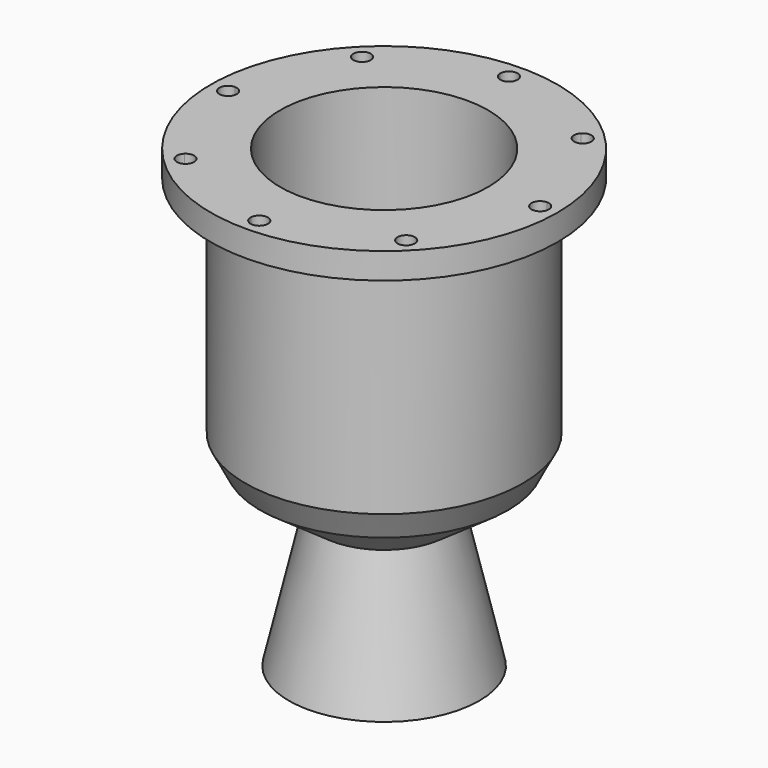
from build123d import *

# Parameters (mm, degrees)
F0_W     = 12.7
F0_H     = 81.915
F0_H_2   = 9.525
F3_DEPTH = 25.4


with BuildPart() as f1:
    # F0 (on Front) → F1 (revolve)
    with BuildSketch(Plane.XZ):
        with Locations((44.45, 40.9575)):
            Rectangle(F0_W, F0_H)
        with BuildLine():
            Line((45.384421, -10.403231), (38.1, 0))
            Line((38.1, 0), (18.240534, -13.905748))
            ThreePointArc((18.240534, -13.905748), (15.954509, -16.831727), (15.695494, -20.535803))
            Line((15.695494, -20.535803), (17.813243, -29.708778))
            Line((17.813243, -29.708778), (23.423366, -25.780527))
            Line((23.423366, -25.780527), (45.384421, -10.403231))
        make_face()
        Polygon((50.8, 0), (38.1, 0), (45.384421, -10.403231), align=None)
        with Locations((44.45, 86.6775)):
            Rectangle(F0_W, F0_H_2)
        with Locations((57.15, 86.6775)):
            Rectangle(F0_W, F0_H_2)
        Polygon((34.850879, -75.278527), (23.423366, -25.780527), (17.813243, -29.708778), (28.194, -74.672778), align=None)
    revolve(axis=Axis((0, 0, 40.38142), (0, 0, 1)))

    # F2 (on face) → F3 (cut)
    with BuildSketch(Plane.XY.offset(91.44)):
        with BuildLine():
            ThreePointArc((-3.173775, 57.061806), (0, 53.975), (3.173775, 57.061806))
            ThreePointArc((3.173775, 57.061806), (3.174694, 57.105899), (3.175, 57.15))
            ThreePointArc((3.175, 57.15), (-0.044101, 60.324694), (-3.173775, 57.061806))
        make_face()
        with BuildLine():
            ThreePointArc((43.586153, 40.411153), (41.585311, 43.361064), (38.104592, 42.592987))
            ThreePointArc((38.104592, 42.592987), (38.166089, 38.166089), (42.592987, 38.104592))
            ThreePointArc((42.592987, 38.104592), (43.32731, 39.155505), (43.586153, 40.411153))
        make_face()
        with BuildLine():
            ThreePointArc((60.325, 0), (59.363663, 2.276032), (57.061806, 3.173775))
            ThreePointArc((57.061806, 3.173775), (53.975, 0), (57.061806, -3.173775))
            ThreePointArc((57.061806, -3.173775), (59.363663, -2.276032), (60.325, 0))
        make_face()
        with BuildLine():
            ThreePointArc((43.586153, -40.411153), (43.32731, -39.155505), (42.592987, -38.104592))
            ThreePointArc((42.592987, -38.104592), (38.166089, -38.166089), (38.104592, -42.592987))
            ThreePointArc((38.104592, -42.592987), (41.585311, -43.361064), (43.586153, -40.411153))
        make_face()
        with BuildLine():
            ThreePointArc((3.175, -57.15), (3.174694, -57.105899), (3.173775, -57.061806))
            ThreePointArc((3.173775, -57.061806), (0, -53.975), (-3.173775, -57.061806))
            ThreePointArc((-3.173775, -57.061806), (-0.044101, -60.324694), (3.175, -57.15))
        make_face()
        with BuildLine():
            ThreePointArc((-37.236153, -40.411153), (-39.155505, -37.494995), (-42.592987, -38.104592))
            ThreePointArc((-42.592987, -38.104592), (-42.656217, -42.656217), (-38.104592, -42.592987))
            ThreePointArc((-38.104592, -42.592987), (-37.461241, -41.585311), (-37.236153, -40.411153))
        make_face()
        with BuildLine():
            ThreePointArc((-53.975, 0), (-54.873968, 2.213663), (-57.061806, 3.173775))
            ThreePointArc((-57.061806, 3.173775), (-60.325, 0), (-57.061806, -3.173775))
            ThreePointArc((-57.061806, -3.173775), (-54.873968, -2.213663), (-53.975, 0))
        make_face()
        with BuildLine():
            ThreePointArc((-37.236153, 40.411153), (-37.461241, 41.585311), (-38.104592, 42.592987))
            ThreePointArc((-38.104592, 42.592987), (-42.656217, 42.656217), (-42.592987, 38.104592))
            ThreePointArc((-42.592987, 38.104592), (-39.155505, 37.494995), (-37.236153, 40.411153))
        make_face()
    extrude(amount=-F3_DEPTH, mode=Mode.SUBTRACT)


solid = f1.part
